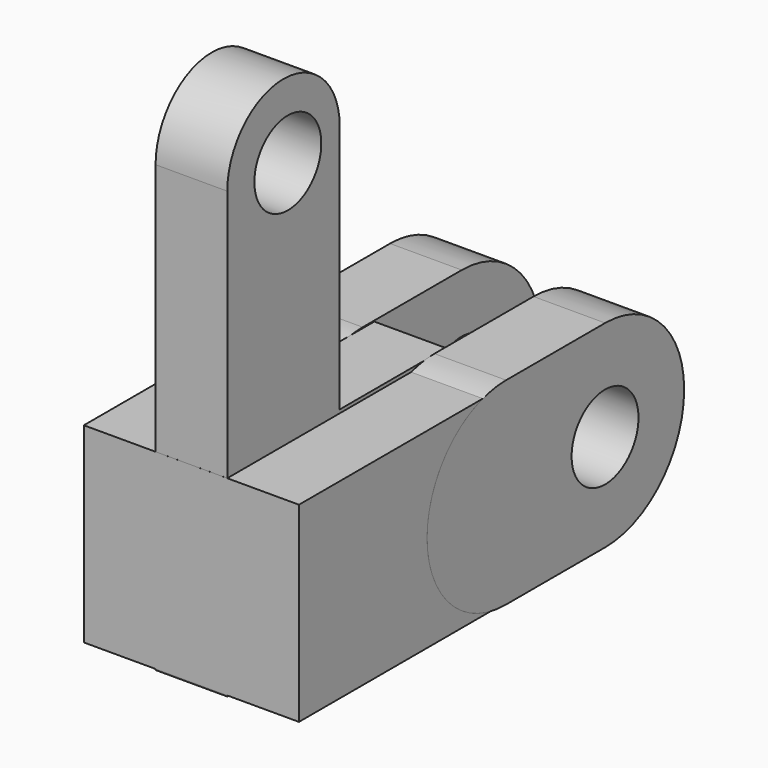
from build123d import *

# Parameters (mm, degrees)
BOX_W            = 18
BOX_H            = 23
BOX_DEPTH        = 16
SKETCH052_R      = 3.5
EXTRUDE107_DEPTH = 6
SKETCH053_R      = 3.5
EXTRUDE108_DEPTH = 6


with BuildPart() as obj1:
    # Box → Box (new body)
    with BuildSketch(Plane(origin=(50, -91, 137), x_dir=(1, 0, 0), z_dir=(0, 0, 1))):
        with Locations((9, 11.5)):
            Rectangle(BOX_W, BOX_H)
    extrude(amount=BOX_DEPTH)


with BuildPart() as obj2:
    # Sketch052 → Extrude107 (new body)
    with BuildSketch(Plane(origin=(0, 0, 0), x_dir=(0, -1, 0), z_dir=(-1, 0, 0))):
        with BuildLine():
            ThreePointArc((58.973241, 153.367004), (50.710325, 145.104089), (58.973241, 136.841174))
            Line((58.973241, 136.841174), (69.333241, 136.841174))
            ThreePointArc((69.333241, 136.841174), (77.596156, 145.104089), (69.333241, 153.367004))
            Line((58.973241, 153.367004), (69.333241, 153.367004))
        make_face()
        with Locations((58.984818, 144.974605)):
            Circle(SKETCH052_R, mode=Mode.SUBTRACT)
    extrude(amount=EXTRUDE107_DEPTH)


with BuildPart() as obj2_1:
    # Extrude107 placement: moved
    add(obj2.part.moved(Location((56, 0, 0))))


with BuildPart() as obj3:
    # Link027 base: copy of obj2
    add(obj2_1.part)


with BuildPart() as obj3_1:
    # Link027 placement: moved
    add(obj3.part.moved(Location((12.000008, -8e-06, 0))))


with BuildPart() as obj4:
    # Sketch053 → Extrude108 (new body)
    with BuildSketch(Plane(origin=(0, 0, 0), x_dir=(0, -1, 0), z_dir=(-1, 0, 0))):
        with BuildLine():
            ThreePointArc((90.998128, 174.147008), (85.118128, 180.027008), (79.238128, 174.147008))
            Line((79.238128, 174.147008), (79.238128, 153.287008))
            Line((68.118128, 153.287008), (79.238128, 153.287008))
            Line((68.118128, 136.917008), (68.118128, 153.287008))
            Line((90.998128, 136.917008), (68.118128, 136.917008))
            Line((90.998128, 153.287008), (90.998128, 136.917008))
            Line((90.998128, 174.147008), (90.998128, 153.287008))
        make_face()
        with Locations((84.66301, 173.655309)):
            Circle(SKETCH053_R, mode=Mode.SUBTRACT)
    extrude(amount=EXTRUDE108_DEPTH)


with BuildPart() as obj4_1:
    # Extrude108 placement: moved
    add(obj4.part.moved(Location((62, 0, 0))))

    # Fusion077: union obj1, obj3, obj2
    add(obj1.part)
    add(obj3_1.part)
    add(obj2_1.part)


solid = obj4_1.part
